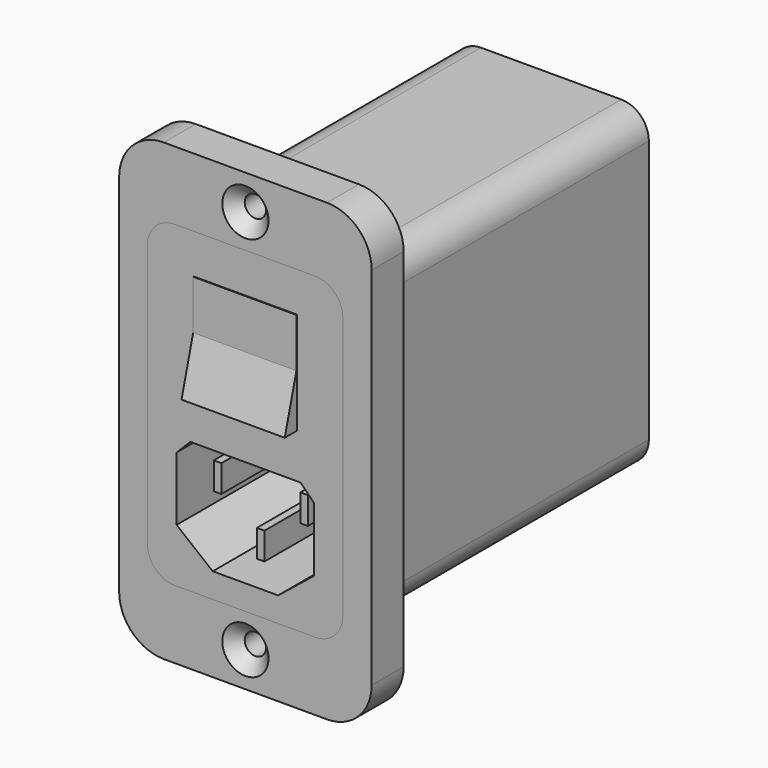
from build123d import *

# Parameters (mm, degrees)
F1_DEPTH       = 5.8
F2_DEPTH       = 5.8
F2_DEPTH_BACK  = 49.8
F4_D           = 3.1
F4_CSINK_D     = 6.72
F4_CSINK_ANGLE = 90
F6_DEPTH       = 20
F7_SIZE        = 2
F8_W           = 1.10455
F8_H           = 3.950565
F9_DEPTH       = 3
F9_DEPTH_BACK  = 15
F11_DEPTH      = 7.5


with BuildPart() as f1:
    # F0 (on Front) → F1 (new body)
    with BuildSketch(Plane.XZ):
        with BuildLine():
            Line((-11.85, -33.05), (11.85, -33.05))
            ThreePointArc((11.85, -33.05), (16.446194, -31.146194), (18.35, -26.55))
            Line((18.35, -26.55), (18.35, 26.55))
            ThreePointArc((18.35, 26.55), (16.446194, 31.146194), (11.85, 33.05))
            Line((11.85, 33.05), (-11.85, 33.05))
            ThreePointArc((-11.85, 33.05), (-16.446194, 31.146194), (-18.35, 26.55))
            Line((-18.35, 26.55), (-18.35, -26.55))
            ThreePointArc((-18.35, -26.55), (-16.446194, -31.146194), (-11.85, -33.05))
        make_face()
        with BuildLine():
            ThreePointArc((-14.25, 19.1), (-13.078427, 21.928427), (-10.25, 23.1))
            Line((-10.25, 23.1), (10.15, 23.1))
            ThreePointArc((10.15, 23.1), (12.978427, 21.928427), (14.15, 19.1))
            Line((14.15, 19.1), (14.15, -19.1))
            ThreePointArc((14.15, -19.1), (12.978427, -21.928427), (10.15, -23.1))
            Line((10.15, -23.1), (-10.25, -23.1))
            ThreePointArc((-10.25, -23.1), (-13.078427, -21.928427), (-14.25, -19.1))
            Line((-14.25, -19.1), (-14.25, 19.1))
        make_face(mode=Mode.SUBTRACT)
    extrude(amount=F1_DEPTH)

    # F4 (through all)
    with Locations(Plane.XZ.offset(5.8)):
        with Locations((0, 28), (0, -28)):
            CounterSinkHole(F4_D / 2, F4_CSINK_D / 2, counter_sink_angle=F4_CSINK_ANGLE)


with BuildPart() as f2:
    # F0 (on Front) → F2 (new body, two sides)
    with BuildSketch(Plane.XZ) as f2_sk:
        with BuildLine():
            Line((10.15, 23.1), (-10.25, 23.1))
            ThreePointArc((-10.25, 23.1), (-13.078427, 21.928427), (-14.25, 19.1))
            Line((-14.25, 19.1), (-14.25, -19.1))
            ThreePointArc((-14.25, -19.1), (-13.078427, -21.928427), (-10.25, -23.1))
            Line((-10.25, -23.1), (10.15, -23.1))
            ThreePointArc((10.15, -23.1), (12.978427, -21.928427), (14.15, -19.1))
            Line((14.15, -19.1), (14.15, 19.1))
            ThreePointArc((14.15, 19.1), (12.978427, 21.928427), (10.15, 23.1))
        make_face()
    extrude(amount=F2_DEPTH)
    extrude(f2_sk.sketch, amount=-F2_DEPTH_BACK)

    # F5 (on face) → F6 (cut)
    with BuildSketch(Plane.XZ.offset(5.8)):
        Polygon((10, -4), (-10, -4), (-10, -15.276731), (-4.75, -19.5), (4.75, -19.5), (10, -15.276731), align=None)
    extrude(amount=-F6_DEPTH, mode=Mode.SUBTRACT)

    # F7
    f7_edges = [f2.edges().sort_by_distance(p)[0] for p in [
        (10, 4.2, -4),
        (-10, 4.2, -4),
    ]]
    chamfer(f7_edges, length=F7_SIZE)

    # F8 (on face) → F9 (join, two sides)
    with BuildSketch(Plane.XZ) as f9_sk:
        with Locations((-6.288206, -9.105137)):
            Rectangle(F8_W, F8_H)
        with Locations((6.288206, -9.105137)):
            Rectangle(F8_W, F8_H)
        with Locations((-0.023888, -15.705768)):
            Rectangle(F8_W, F8_H)
    extrude(amount=F9_DEPTH)
    extrude(f9_sk.sketch, amount=-F9_DEPTH_BACK)


with BuildPart() as f11:
    # F10 (on Right) → F11 (new body, symmetric)
    with BuildSketch(Plane.YZ):
        Polygon((-5.91071, 17.321525), (-5.91071, 10.176873), (-8.032478, 2.468971), (-4.28624, 2.468971), (-4.28624, 17.321525), (-5.8, 17.321525), align=None)
    extrude(amount=F11_DEPTH, both=True)


solid = Compound([f1.part, f2.part, f11.part])
